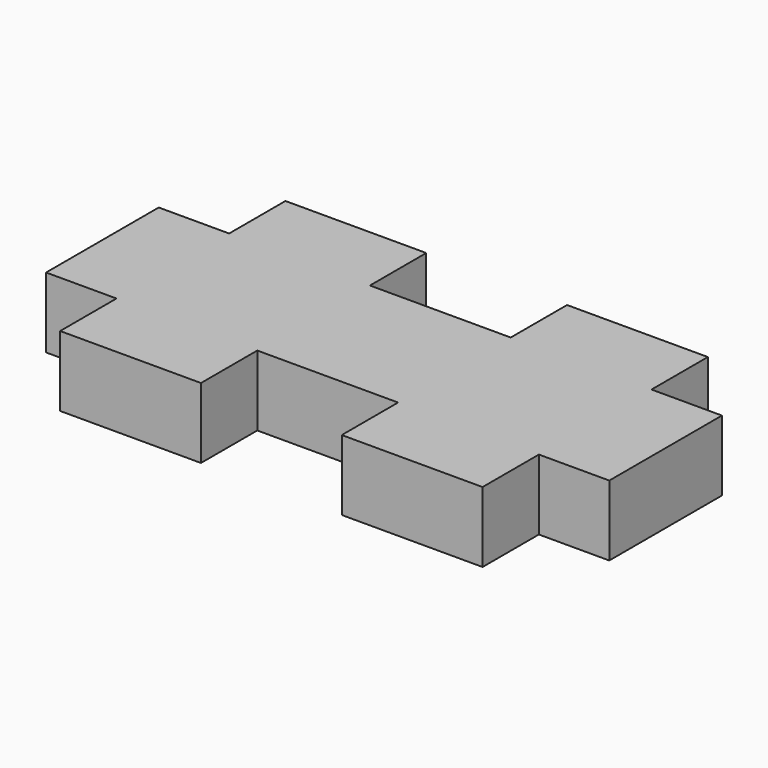
from build123d import *

# Parameters (mm, degrees)
F1_DEPTH = 6.35


with BuildPart() as f1:
    # F0 (on Top) → F1 (new body)
    with BuildSketch(Plane.XY):
        Polygon((12.7, -19.05), (12.7, -25.4), (25.4, -25.4), (25.4, -19.05), (38.1, -19.05), (38.1, -25.4), (50.8, -25.4), (50.8, -19.05), (57.15, -19.05), (57.15, -6.35), (50.8, -6.35), (50.8, 0), (38.1, 0), (38.1, -6.35), (25.4, -6.35), (25.4, 0), (12.7, 0), (12.7, -6.35), (6.35, -6.35), (6.35, -19.05), align=None)
    extrude(amount=F1_DEPTH)


solid = f1.part
